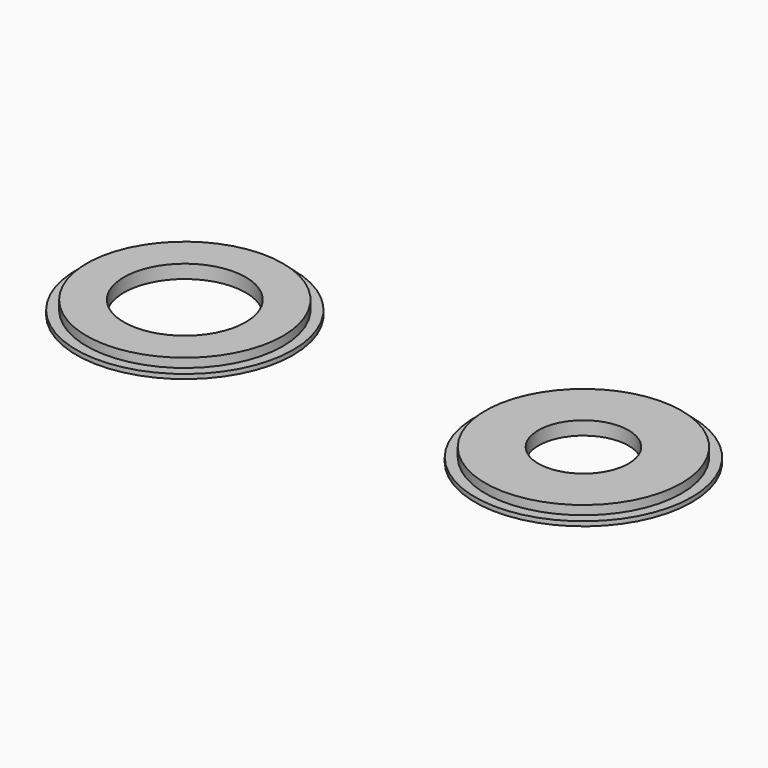
from build123d import *

# Parameters (mm, degrees)
F0_R     = 12
F0_R_2   = 10.875
F0_R_3   = 5
F1_DEPTH = 0.5
F2_DEPTH = 1
F0_R_4   = 6.75
F3_DEPTH = 0.5
F4_DEPTH = 1


with BuildPart() as f1:
    # F0 (on Top) → F1 (new body)
    with BuildSketch(Plane.XY):
        Circle(F0_R)
        Circle(F0_R_2, mode=Mode.SUBTRACT)
        Circle(F0_R_2)
        Circle(F0_R_3, mode=Mode.SUBTRACT)
    extrude(amount=-F1_DEPTH)

    # F0 (on Top) → F2 (join)
    with BuildSketch(Plane.XY):
        Circle(F0_R_2)
        Circle(F0_R_3, mode=Mode.SUBTRACT)
    extrude(amount=F2_DEPTH)


with BuildPart() as f3:
    # F0 (on Top) → F3 (new body)
    with BuildSketch(Plane.XY):
        with Locations((-44.1597141325, 0)):
            Circle(F0_R)
        with Locations((-44.1597141325, 0)):
            Circle(F0_R_2, mode=Mode.SUBTRACT)
        with Locations((-44.1597141325, 0)):
            Circle(F0_R_2)
        with Locations((-44.1597141325, 0)):
            Circle(F0_R_4, mode=Mode.SUBTRACT)
    extrude(amount=-F3_DEPTH)

    # F0 (on Top) → F4 (join)
    with BuildSketch(Plane.XY):
        with Locations((-44.1597141325, 0)):
            Circle(F0_R_2)
        with Locations((-44.1597141325, 0)):
            Circle(F0_R_4, mode=Mode.SUBTRACT)
    extrude(amount=F4_DEPTH)


solid = Compound([f1.part, f3.part])
